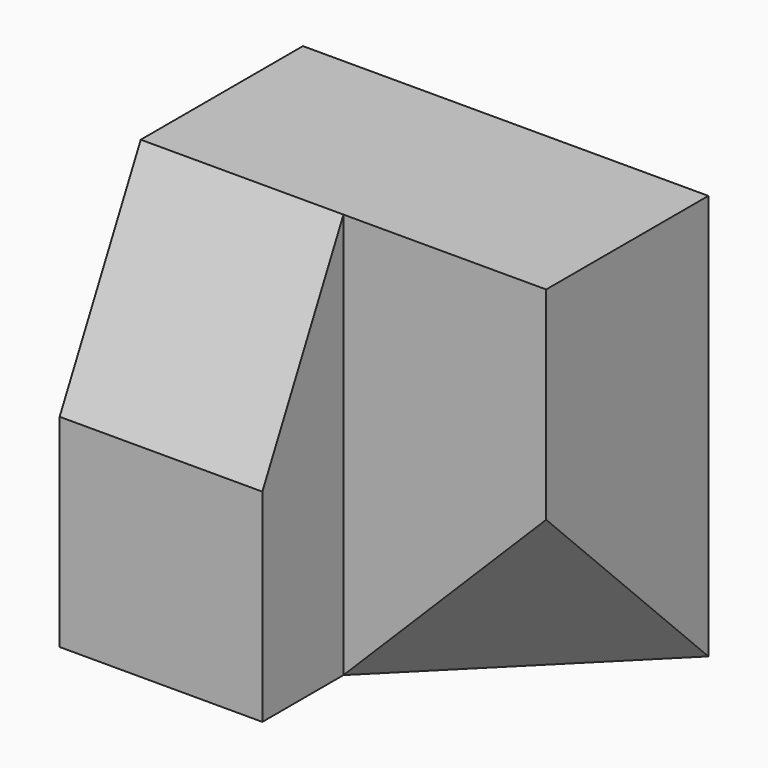
from build123d import *

# Parameters (mm, degrees)
F0_W      = 127
F0_H      = 254
F1_DEPTH  = 127
F2_DEPTH  = 127
F3_W      = 127
F3_H      = 127
F4_DEPTH  = 63.5
F6_DEPTH  = 127
F7_DEPTH  = 127
F11_DEPTH = 172.212


with BuildPart() as f1:
    # F0 (on Front) → F1 (new body)
    with BuildSketch(Plane.XZ):
        with Locations((63.5, 127)):
            Rectangle(F0_W, F0_H)
    extrude(amount=F1_DEPTH)

    # F0 (on Front) → F2 (join)
    with BuildSketch(Plane.XZ):
        Polygon((127, 254), (127, 0), (254, 127), (254, 254), align=None)
    extrude(amount=F2_DEPTH)

    # F3 (on face) → F4 (join)
    with BuildSketch(Plane.XZ.offset(127)):
        with Locations((63.5, 63.5)):
            Rectangle(F3_W, F3_H)
    extrude(amount=F4_DEPTH)

    # F5 (on face) → F6 (join)
    with BuildSketch(Plane(origin=(0, 0, 0), x_dir=(0, -1, 0), z_dir=(-1, 0, 0))):
        Polygon((127, 127), (190.5, 127), (127, 254), align=None)
    extrude(amount=-F6_DEPTH)

    # F0 (on Front) → F7 (join)
    with BuildSketch(Plane.XZ):
        Polygon((254, 127), (127, 0), (254, 0), align=None)
    extrude(amount=F7_DEPTH)

    # F10 (on 3pt) → F11 (cut)
    with BuildSketch(Plane(origin=(84.6666666667, -84.6666666667, -84.6666666667), x_dir=(0.4082482905, 0.8164965809, -0.4082482905), z_dir=(0.5773502692, -0.5773502692, -0.5773502692))):
        Polygon((103.6950657778, 179.6051224214), (-51.8475328889, 269.4076836321), (-51.8475328889, 89.8025612107), align=None)
    extrude(amount=F11_DEPTH, mode=Mode.SUBTRACT)


solid = f1.part
